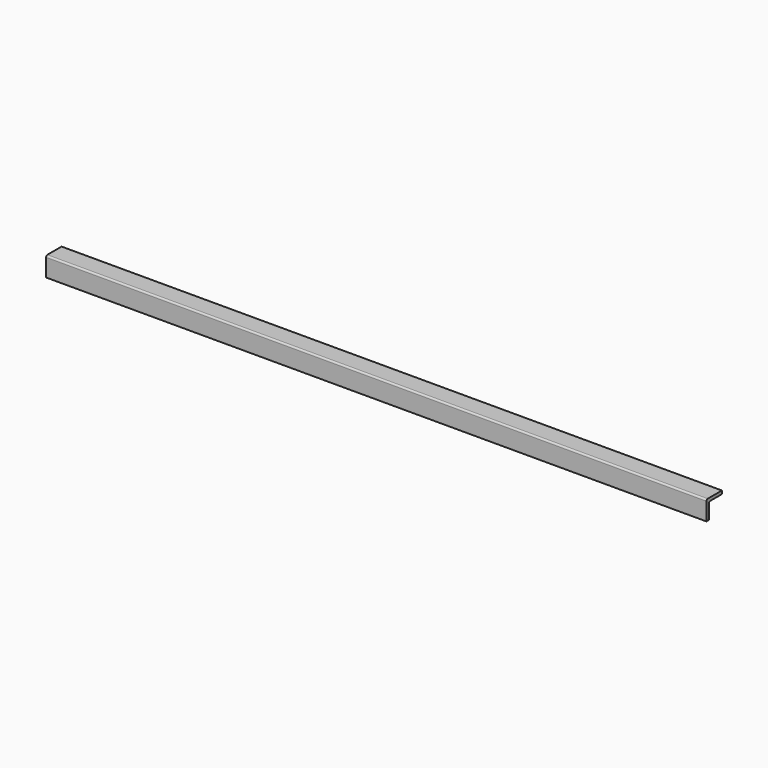
from build123d import *

# Parameters (mm, degrees)
F1_DEPTH = 1022


with BuildPart() as f1:
    # F0 (on Right) → F1 (new body)
    with BuildSketch(Plane.YZ):
        with BuildLine():
            Line((15, 10), (15, 15))
            Line((15, 15), (-12.5, 15))
            ThreePointArc((-12.5, 15), (-14.267767, 14.267767), (-15, 12.5))
            Line((-15, 12.5), (-15, -15))
            Line((-15, -15), (-10, -15))
            Line((-10, -15), (-10, 7.5))
            ThreePointArc((-10, 7.5), (-9.267767, 9.267767), (-7.5, 10))
            Line((-7.5, 10), (15, 10))
        make_face()
    extrude(amount=F1_DEPTH)


solid = f1.part
